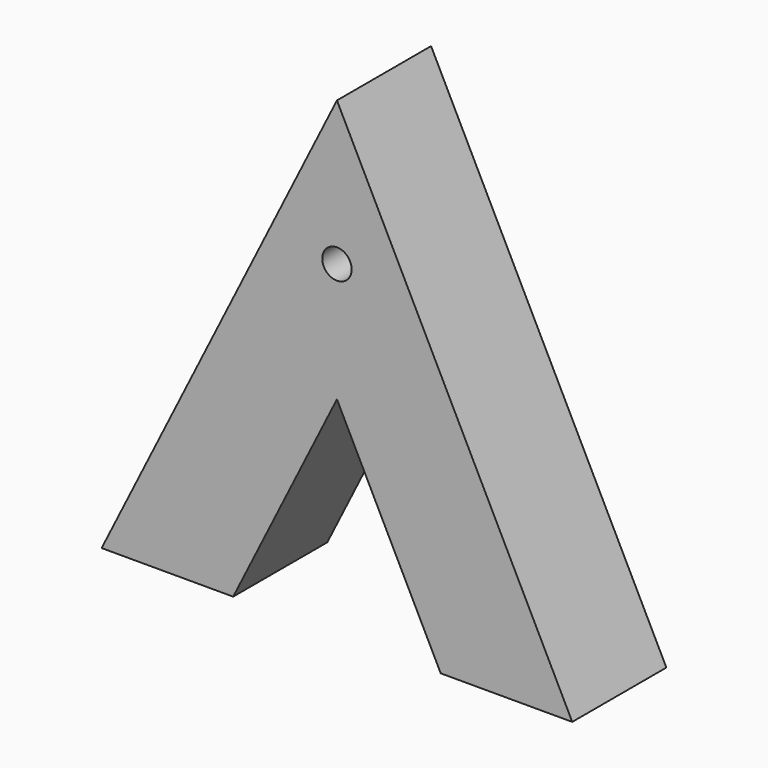
from build123d import *

# Parameters (mm, degrees)
F1_DEPTH = 12.7
F2_R     = 1.5875
F3_DEPTH = 25.4


with BuildPart() as f1:
    # F0 (on Front) → F1 (new body)
    with BuildSketch(Plane.XZ):
        Polygon((25.4, 50.8), (0, 0), (14.199032, 0), (25.4, 22.401937), (36.600968, 0), (50.8, 0), align=None)
    extrude(amount=F1_DEPTH)

    # F2 (on face) → F3 (cut)
    with BuildSketch(Plane.XZ.offset(12.7)):
        with Locations((25.4, 35.256207)):
            Circle(F2_R)
    extrude(amount=-F3_DEPTH, mode=Mode.SUBTRACT)


solid = f1.part
